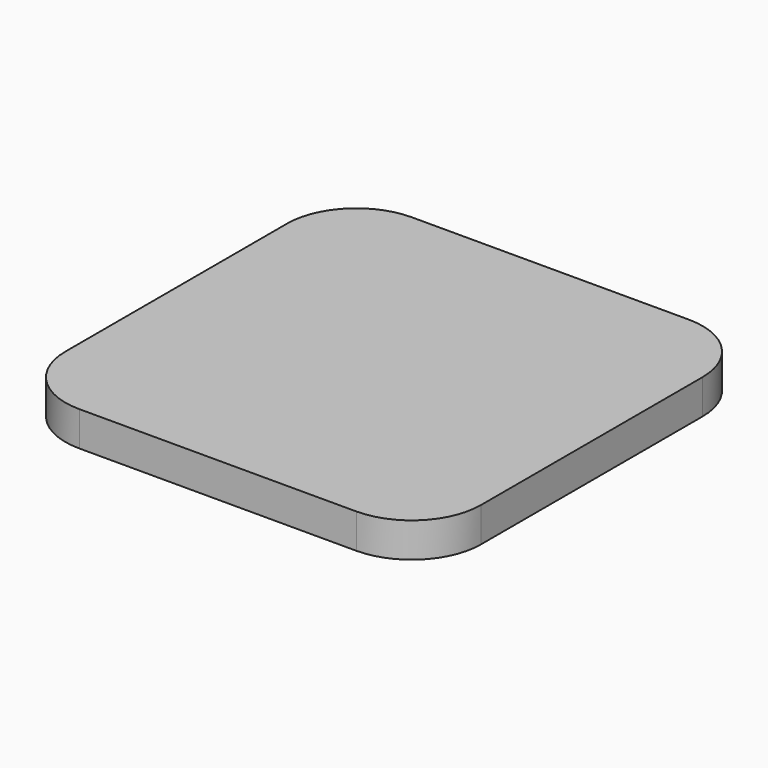
from build123d import *

# Parameters (mm, degrees)
F1_DEPTH = 1.5875
F3_DEPTH = 3.175


with BuildPart() as f1:
    # F0 (on Top) → F1 (new body)
    with BuildSketch(Plane.XY):
        with BuildLine():
            Line((40.410568, 15.044903), (15.010568, 15.044903))
            ThreePointArc((15.010568, 15.044903), (10.52044, 13.185031), (8.660568, 8.694903))
            Line((8.660568, 8.694903), (8.660568, -16.705097))
            ThreePointArc((8.660568, -16.705097), (10.52044, -21.195225), (15.010568, -23.055097))
            Line((15.010568, -23.055097), (40.410568, -23.055097))
            ThreePointArc((40.410568, -23.055097), (44.900696, -21.195225), (46.760568, -16.705097))
            Line((46.760568, -16.705097), (46.760568, 8.694903))
            ThreePointArc((46.760568, 8.694903), (44.900696, 13.185031), (40.410568, 15.044903))
        make_face()
    extrude(amount=F1_DEPTH)

    # F2 (on face) → F3 (join)
    with BuildSketch(Plane.XY.offset(1.5875)):
        with BuildLine():
            ThreePointArc((46.760568, 8.694903), (44.900696, 13.185031), (40.410568, 15.044903))
            Line((40.410568, 15.044903), (15.010568, 15.044903))
            ThreePointArc((15.010568, 15.044903), (10.52044, 13.185031), (8.660568, 8.694903))
            Line((8.660568, 8.694903), (8.660568, -16.705097))
            ThreePointArc((8.660568, -16.705097), (10.52044, -21.195225), (15.010568, -23.055097))
            Line((15.010568, -23.055097), (40.410568, -23.055097))
            ThreePointArc((40.410568, -23.055097), (44.900696, -21.195225), (46.760568, -16.705097))
            Line((46.760568, -16.705097), (46.760568, 8.694903))
        make_face()
        with BuildLine():
            ThreePointArc((10.248068, 7.107403), (12.10794, 11.597531), (16.598068, 13.457403))
            Line((16.598068, 13.457403), (38.823068, 13.457403))
            ThreePointArc((38.823068, 13.457403), (43.313196, 11.597531), (45.173068, 7.107403))
            Line((45.173068, 7.107403), (45.173068, -15.117597))
            ThreePointArc((45.173068, -15.117597), (43.313196, -19.607725), (38.823068, -21.467597))
            Line((38.823068, -21.467597), (16.598068, -21.467597))
            ThreePointArc((16.598068, -21.467597), (12.10794, -19.607725), (10.248068, -15.117597))
            Line((10.248068, -15.117597), (10.248068, 7.107403))
        make_face(mode=Mode.SUBTRACT)
    extrude(amount=-F3_DEPTH)


solid = f1.part
